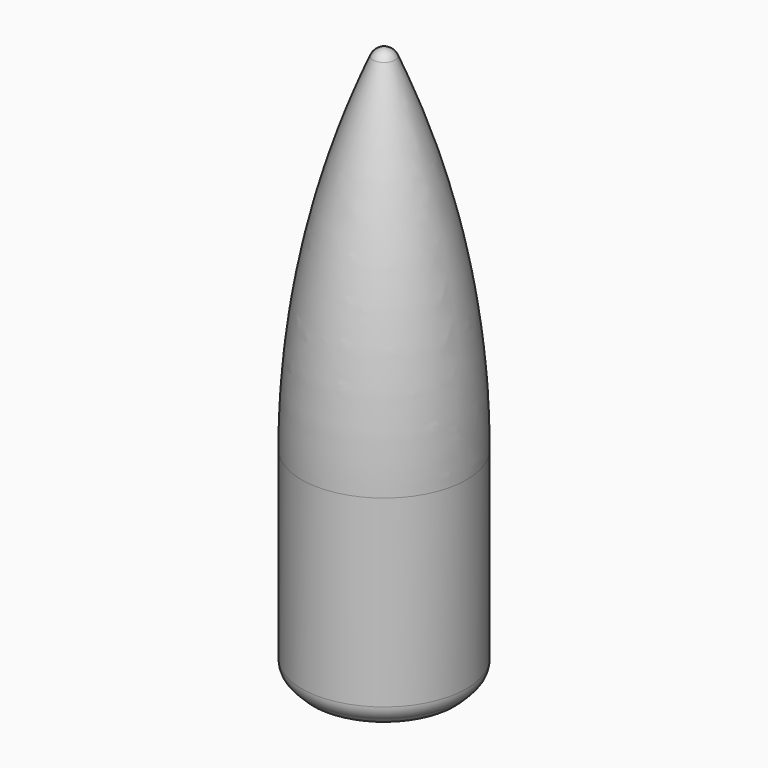
from build123d import *


with BuildPart() as f1:
    # F0 (on Front) → F1 (revolve)
    with BuildSketch(Plane.XZ):
        with BuildLine():
            Line((6.9, -11.37868), (6.9, 4))
            ThreePointArc((6.9, 4), (5.388918, 18.785114), (0.918155, 32.958865))
            ThreePointArc((0.918155, 32.958865), (0.549445, 33.398174), (0, 33.562644))
            Line((0, 33.562644), (0, 17))
            ThreePointArc((0, 17), (0.933889, 16.956297), (1.859615, 16.82557))
            ThreePointArc((1.859615, 16.82557), (1.975286, 16.770203), (2.048289, 16.664771))
            ThreePointArc((2.048289, 16.664771), (4.023505, 9.2468), (4.7, 1.600224))
            ThreePointArc((4.7, 1.600224), (4.67079, 1.529369), (4.6, 1.5))
            ThreePointArc((4.6, 1.5), (4.105025, 1.294975), (3.9, 0.8))
            Line((3.9, 0.8), (3.9, 0.1))
            ThreePointArc((3.9, 0.1), (3.929289, 0.029289), (4, 0))
            Line((4, 0), (4.65, 0))
            ThreePointArc((4.65, 0), (4.826777, -0.073223), (4.9, -0.25))
            Line((4.9, -0.25), (4.9, -13))
            Line((4.9, -13), (5.9, -13))
            Line((5.9, -13), (6.46066, -12.43934))
            ThreePointArc((6.46066, -12.43934), (6.785819, -11.952705), (6.9, -11.37868))
        make_face()
    revolve(axis=Axis((0, 0, 25.281322), (0, 0, 1)))


solid = f1.part
